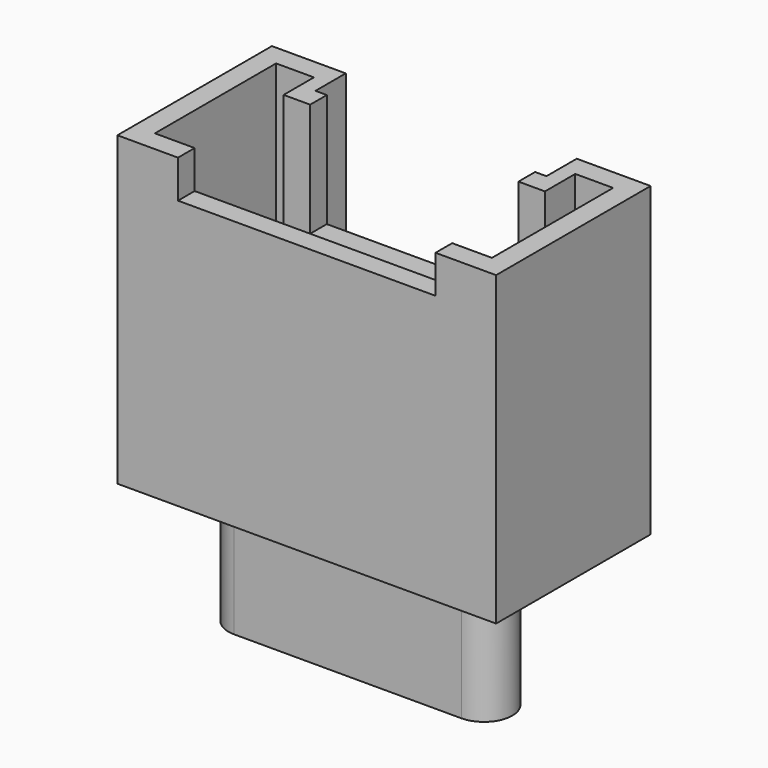
from build123d import *

# Parameters (mm, degrees)
PAD005_DEPTH            = 8.1
POCKET003_DEPTH         = 7
SKETCH010_W             = 6.8
SKETCH010_H             = 5
POCKET004_DEPTH         = 1
SKETCH011_W             = 5.5
SKETCH011_H             = 3
POCKET005_DEPTH         = 3
PAD006_DEPTH            = 4
PAD014_DEPTH            = 3.4
BODY005_PLACEMENT_ANGLE = 180


with BuildPart() as part:
    # Sketch008 → Pad005 (new body)
    with BuildSketch(Plane.XY):
        Polygon((-5, 0), (-3.05, 0), (-3.05, 1), (3.05, 1), (3.05, 0), (5, 0), (5, 5.1), (-5, 5.1), align=None)
    extrude(amount=PAD005_DEPTH)

    # Sketch009 (on Face10 of Pad005) → Pocket003 (cut)
    with BuildSketch(Plane.XY.offset(8.1)):
        Polygon((-4.45, 0.55), (-3.45, 0.55), (-3.45, 1.55), (3.45, 1.55), (3.45, 0.55), (4.45, 0.55), (4.45, 4.55), (-4.45, 4.55), align=None)
    extrude(amount=-POCKET003_DEPTH, mode=Mode.SUBTRACT)

    # Sketch010 (on Face5 of Pocket003) → Pocket004 (cut)
    with BuildSketch(Plane.XY.offset(8.1)):
        with Locations((0, 5.5)):
            Rectangle(SKETCH010_W, SKETCH010_H)
    extrude(amount=-POCKET004_DEPTH, mode=Mode.SUBTRACT)

    # Sketch011 (on Face5 of Pocket004) → Pocket005 (cut)
    with BuildSketch(Plane.XY.offset(8.1)):
        with Locations((0, 1.5)):
            Rectangle(SKETCH011_W, SKETCH011_H)
    extrude(amount=-POCKET005_DEPTH, mode=Mode.SUBTRACT)

    # Sketch012 (on Face26 of Pocket005) → Pad006 (join)
    with BuildSketch(Plane.XY.offset(1.1)):
        with BuildLine():
            ThreePointArc((-3.4, 3.25), (-3.65, 3), (-3.4, 2.75))
            Line((-3.4, 2.75), (3.4, 2.75))
            ThreePointArc((3.4, 2.75), (3.65, 3), (3.4, 3.25))
            Line((-3.4, 3.25), (3.4, 3.25))
        make_face()
    extrude(amount=PAD006_DEPTH)

    # Sketch020 (on Face4 of Pad006) → Pad014 (join)
    with BuildSketch(Plane(origin=(0, 0, 0), x_dir=(1, 0, 0), z_dir=(0, 0, -1))):
        with BuildLine():
            ThreePointArc((-3, -2.25), (-3.75, -3), (-3, -3.75))
            Line((-3, -3.75), (3, -3.75))
            ThreePointArc((3, -3.75), (3.75, -3), (3, -2.25))
            Line((-3, -2.25), (3, -2.25))
        make_face()
    extrude(amount=PAD014_DEPTH)


with BuildPart() as part_1:
    # Body005 placement: moved
    add(part.part.moved(Location((-7, 29, 0))).rotate(Axis((-7, 29, 0), (0, 0, 1)), BODY005_PLACEMENT_ANGLE))


with BuildPart() as part_2:
    # Body011 placement: moved
    add(part_1.part.moved(Location((0, 26, 0))))


solid = part_2.part
